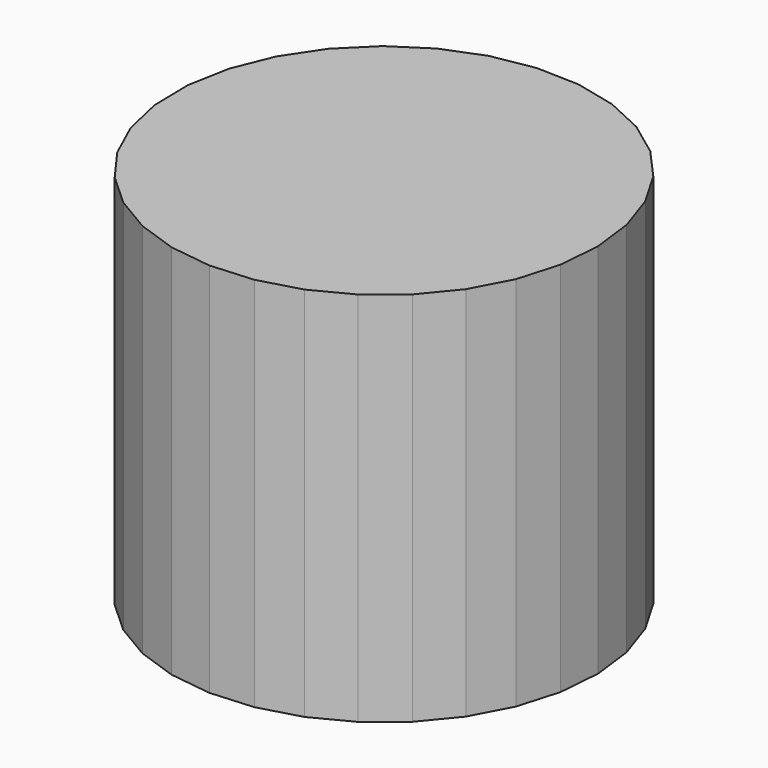
from build123d import *

# Parameters (mm, degrees)
F1_DEPTH      = 33.782
F1_DEPTH_BACK = 25.4


with BuildPart() as f1:
    # F0 (on Top) → F1 (new body, two sides)
    with BuildSketch(Plane.XY) as f1_sk:
        Polygon((18.1071458891, -27.7275939392), (23.3180151746, -23.5150667919), (27.5742421791, -18.3398300471), (30.7015764689, -12.4137585054), (32.5719846108, -5.979466232), (33.1088918757, 0.6996260916), (32.2903172171, 7.3500756408), (30.1497731777, 13.6996122296), (26.7748938819, 19.4882850841), (22.3038472847, 24.4791052575), (16.9196785591, 28.4677479855), (10.8428162052, 31.2909177661), (4.322047682, 32.8330336969), (-2.3756659812, 33.0309613704), (-8.9761196, 31.8765976044), (-15.2090898277, 29.4172021872), (-20.8193981308, 25.753463056), (-25.5773578283, 21.0353741214), (-29.2881774911, 15.4560944988), (-31.7999357262, 9.2440405513), (-33.0098008564, 2.6535344976), (-32.868240861, -4.0456075703), (-31.3810512229, -10.5791219889), (-28.6091176606, -16.6795259103), (-24.6659234598, -22.0970680811), (-19.7129034545, -26.6099536884), (-13.9528348656, -30.0334246652), (-7.6215355779, -32.2273237074), (-0.9782097282, -33.1018323305), (5.7051641428, -32.6211480486), (12.1549679234, -30.8049501329), align=None)
    extrude(amount=-F1_DEPTH)
    extrude(f1_sk.sketch, amount=F1_DEPTH_BACK)


solid = f1.part
